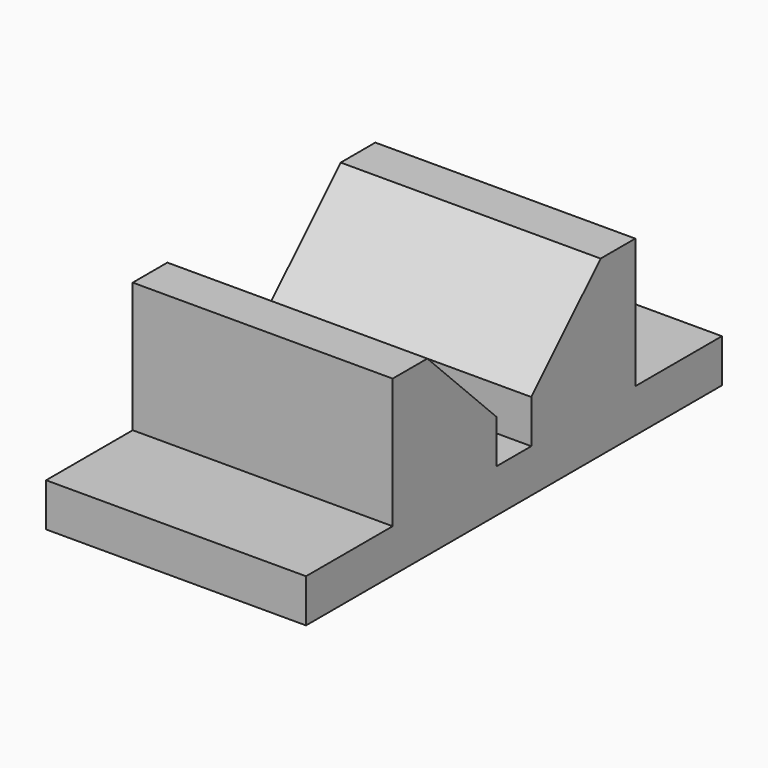
from build123d import *

# Parameters (mm, degrees)
F0_W     = 76.2
F0_H     = 12.7
F1_DEPTH = 152.4
F2_W     = 76.2
F2_H     = 38.1
F3_DEPTH = 38.1
F5_DEPTH = 76.2


with BuildPart() as f1:
    # F0 (on Front) → F1 (new body)
    with BuildSketch(Plane.XZ):
        with Locations((38.1, 6.35)):
            Rectangle(F0_W, F0_H)
    extrude(amount=-F1_DEPTH)

    # F2 (on face) → F3 (join)
    with BuildSketch(Plane.XY.offset(12.7)):
        with Locations((38.1, 101.6)):
            Rectangle(F2_W, F2_H)
        with Locations((38.1, 50.8)):
            Rectangle(F2_W, F2_H)
    extrude(amount=F3_DEPTH)

    # F4 (on face) → F5 (cut)
    with BuildSketch(Plane.YZ.offset(76.2)):
        Polygon((69.85, 50.8), (44.45, 50.8), (69.85, 25.4), align=None)
        Polygon((82.55, 50.8), (82.55, 25.4), (107.95, 50.8), align=None)
    extrude(amount=-F5_DEPTH, mode=Mode.SUBTRACT)


solid = f1.part
